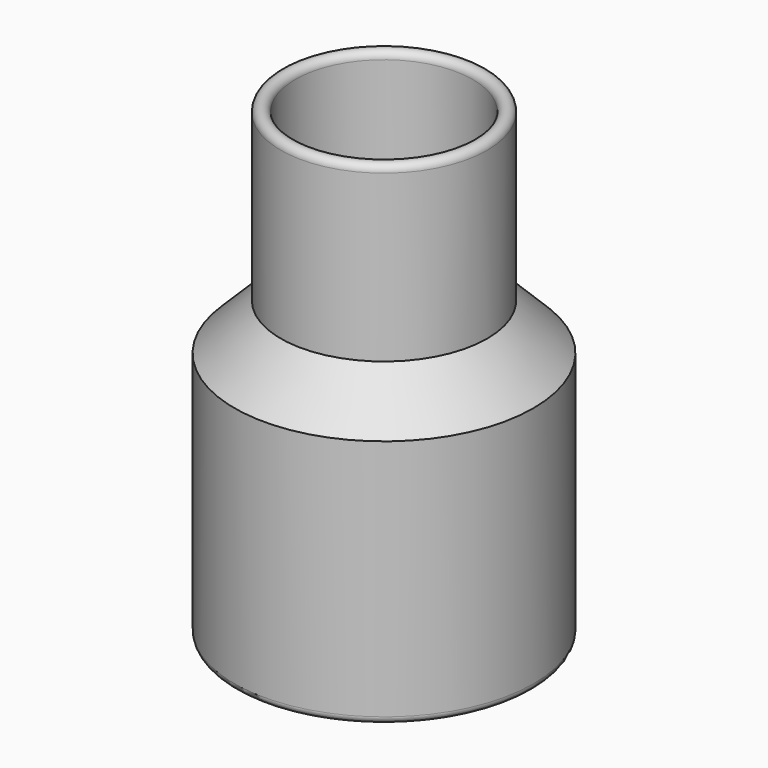
from build123d import *


with BuildPart() as f1:
    # F0 (on Front) → F1 (revolve)
    with BuildSketch(Plane.XZ):
        with BuildLine():
            Line((29.36875, 52.3875), (29.36875, 1.5875))
            ThreePointArc((29.36875, 1.5875), (30.95625, 0), (32.54375, 1.5875))
            Line((32.54375, 1.5875), (32.54375, 54.392995))
            Line((32.54375, 54.392995), (22.479, 64.457745))
            Line((22.479, 64.457745), (22.479, 100.55225))
            ThreePointArc((22.479, 100.55225), (20.8915, 102.13975), (19.304, 100.55225))
            Line((19.304, 100.55225), (19.304, 62.45225))
            Line((19.304, 62.45225), (29.36875, 52.3875))
        make_face()
    revolve(axis=Axis((0, 0, 21.63379), (0, 0, -1)))


solid = f1.part
